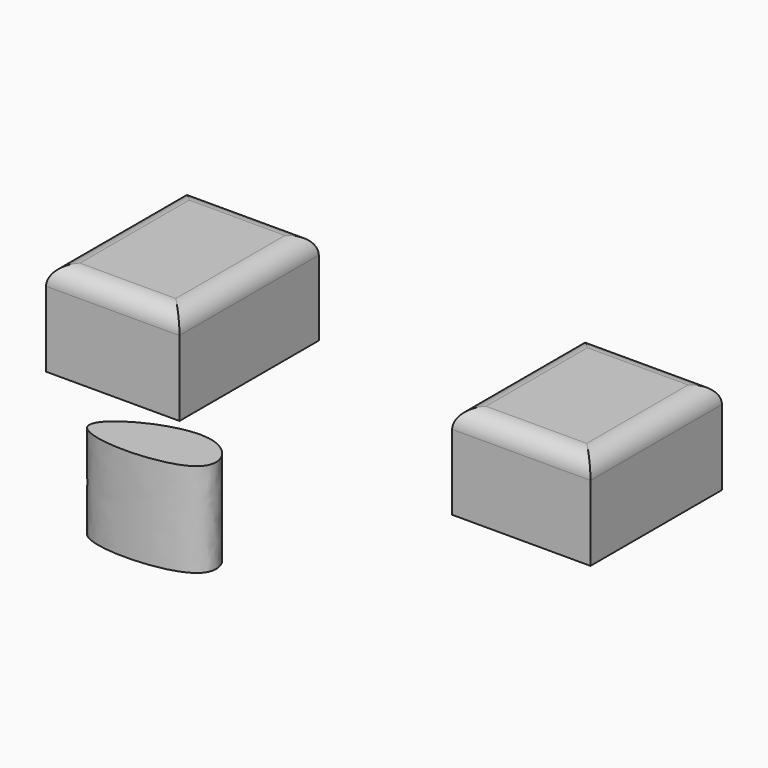
from build123d import *

# Parameters (mm, degrees)
F0_W     = 36.0234566033
F0_H     = 47.0200972632
F1_DEPTH = 25.4
F0_W_2   = 37.3506397009
F0_H_2   = 44.3657357246
F2_R     = 5.08
F3_R     = 5.08


with BuildPart() as f1:
    # F0 (on Top) → F1 (new body)
    with BuildSketch(Plane.XY):
        with Locations((-54.9831744283, 29.7667547129)):
            Rectangle(F0_W, F0_H)
    extrude(amount=F1_DEPTH)

    # F2
    f2_edges = [f1.edges().sort_by_distance(p)[0] for p in [
        (-54.983174, 53.276803, 25.4),
        (-72.994903, 29.766755, 25.4),
        (-54.983174, 6.256706, 25.4),
        (-36.971446, 29.766755, 25.4),
    ]]
    fillet(f2_edges, radius=F2_R)


with BuildPart() as f1b:
    # F0 (on Top) → F1, piece 2 (new body)
    with BuildSketch(Plane.XY):
        with Locations((53.3716008067, 30.9043368325)):
            Rectangle(F0_W_2, F0_H_2)
    extrude(amount=F1_DEPTH)

    # F3
    f3_edges = [f1b.edges().sort_by_distance(p)[0] for p in [
        (53.371601, 53.087205, 25.4),
        (72.046921, 30.904337, 25.4),
        (53.371601, 8.721469, 25.4),
        (34.696281, 30.904337, 25.4),
    ]]
    fillet(f3_edges, radius=F3_R)


with BuildPart() as f1c:
    # F0 (on Top) → F1, piece 3 (new body)
    with BuildSketch(Plane.XY):
        with BuildLine():
            add(Edge.make_bspline(
                [(-20.0972985476, -45.8825156093), (-18.0280519392, -50.761255776), (18.9660756998, -50.8391629105), (4.7652291289, -26.4155916283), (-22.0290362866, -41.32798525), (-20.0972985476, -45.8825156093)],
                knots=[0, 0, 0, 0, 0.3863644362, 0.6393108684, 1, 1, 1, 1], degree=3))
        make_face()
    extrude(amount=F1_DEPTH)


solid = Compound([f1.part, f1b.part, f1c.part])
